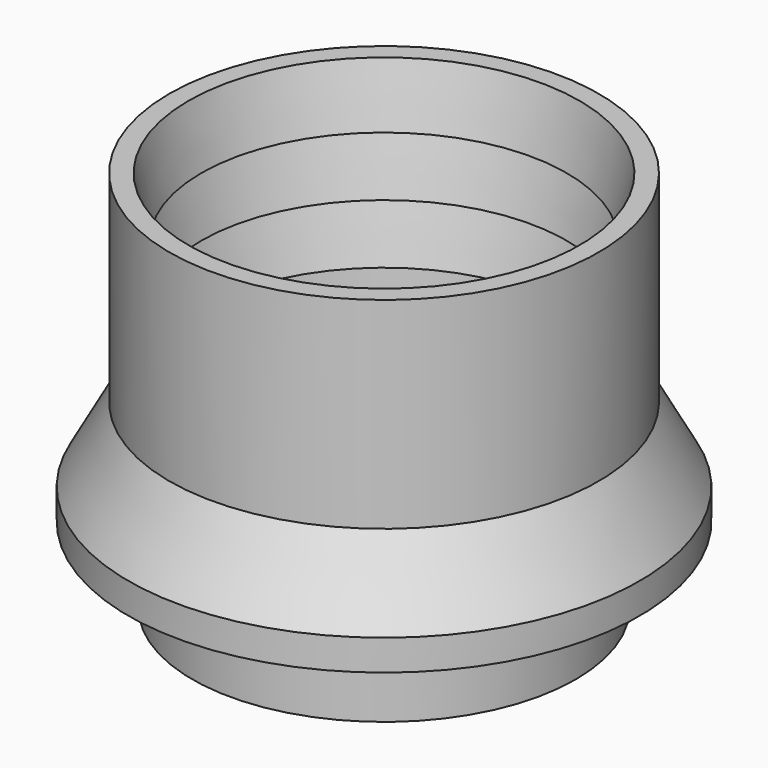
from build123d import *


with BuildPart() as f2:
    # F1 (on Front) → F2 (revolve)
    with BuildSketch(Plane.XZ):
        Polygon((-7.15, 9.672805), (-7.65, 12), (-8.4, 12), (-8.4, 4.118945), (-10, 1.202073), (-10, 0), (-7.5, 0), (-7.5, -3), (-6, -3), (-6, 0), (-7.5, 1.2), (-7.65, 5.018414), (-7.15, 5.018414), (-7.65, 7.345609), (-7.15, 7.345609), (-7.65, 9.672805), align=None)
    revolve(axis=Axis((0, 0, 6.619667), (0, 0, -1)))


solid = f2.part
